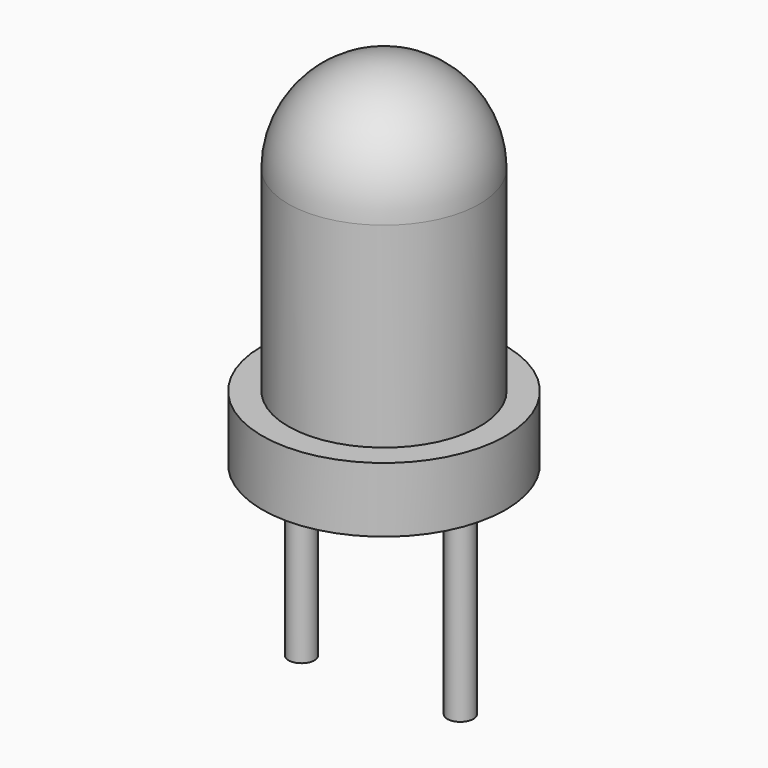
from build123d import *

# Parameters (mm, degrees)
F2_R     = 0.2
F3_DEPTH = 3


with BuildPart() as f1:
    # F0 (on Front) → F1 (revolve)
    with BuildSketch(Plane.XZ):
        with BuildLine():
            Line((0, -0.154062), (0, 5.335938))
            ThreePointArc((0, 5.335938), (-1.042983, 4.90392), (-1.475, 3.860938))
            Line((-1.475, 3.860938), (-1.475, 0.845938))
            Line((-1.475, 0.845938), (-1.875, 0.845938))
            Line((-1.875, 0.845938), (-1.875, -0.154062))
            Line((-1.875, -0.154062), (0, -0.154062))
        make_face()
    revolve(axis=Axis((0, 0, 2.590938), (0, 0, -1)))


with BuildPart() as f3:
    # F2 (on face) → F3 (new body)
    with BuildSketch(Plane(origin=(0, 0, -0.154062), x_dir=(1, 0, 0), z_dir=(0, 0, -1))):
        with Locations((-1.27, 0)):
            Circle(F2_R)
        with Locations((1.175443, 0)):
            Circle(F2_R)
    extrude(amount=F3_DEPTH)


solid = Compound([f1.part, f3.part])
